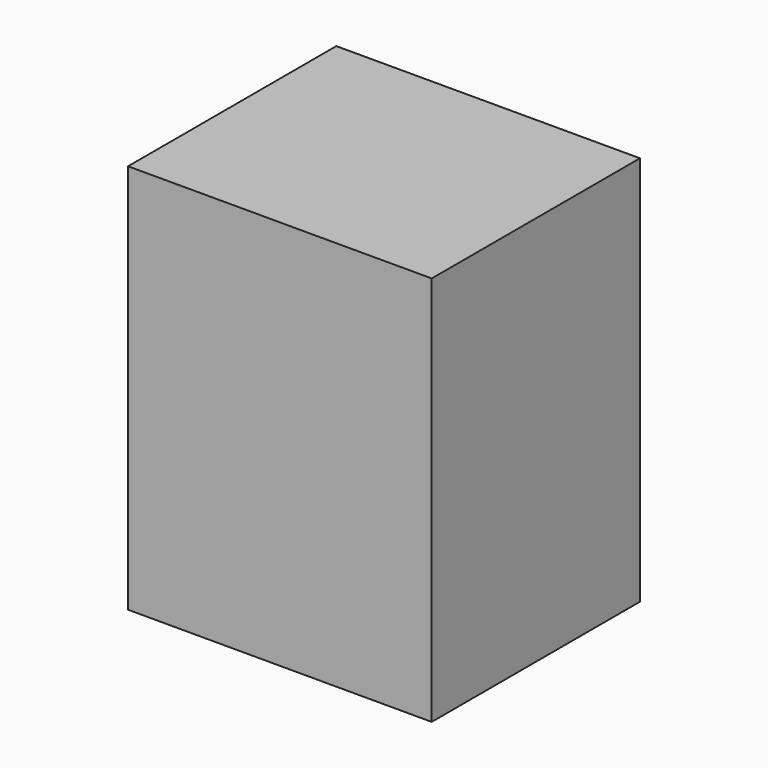
from build123d import *

# Parameters (mm, degrees)
BOX060_W     = 6
BOX060_H     = 5
BOX060_DEPTH = 1
BOX070_W     = 7
BOX070_H     = 6
BOX070_DEPTH = 9


with BuildPart() as box060:
    # Box060 → Box060 (new body)
    with BuildSketch(Plane(origin=(12, 29.18, 11.6), x_dir=(1, 0, 0), z_dir=(0, 0, 1))):
        with Locations((3, 2.5)):
            Rectangle(BOX060_W, BOX060_H)
    extrude(amount=BOX060_DEPTH)


with BuildPart() as cut008:
    # Box070 → Box070 (new body)
    with BuildSketch(Plane(origin=(11.5, 28.75, 10.6), x_dir=(1, 0, 0), z_dir=(0, 0, 1))):
        with Locations((3.5, 3)):
            Rectangle(BOX070_W, BOX070_H)
    extrude(amount=BOX070_DEPTH)

    # Cut008: cut Box060
    add(box060.part, mode=Mode.SUBTRACT)


solid = cut008.part
